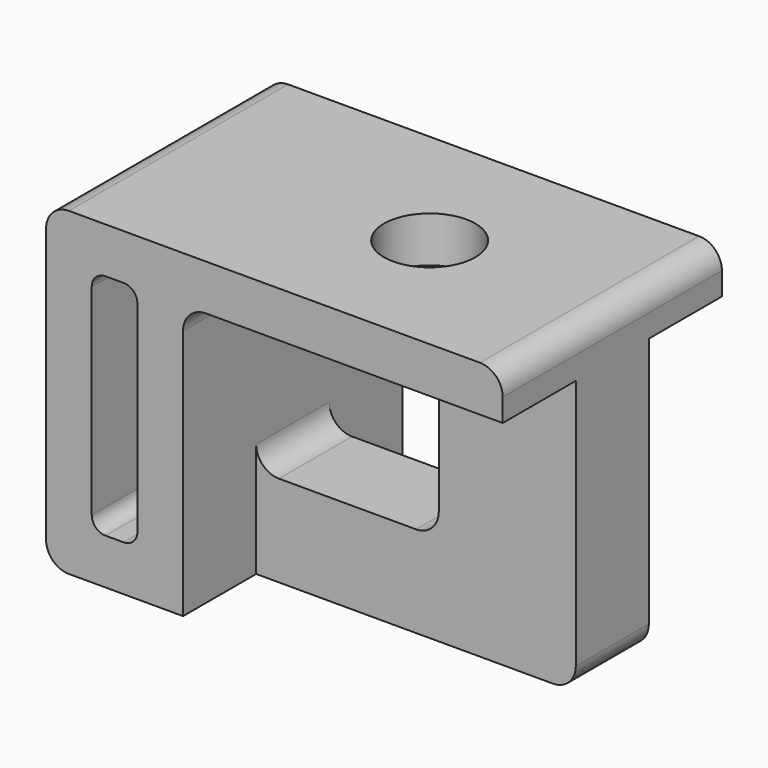
from build123d import *

# Parameters (mm, degrees)
F1_DEPTH = 38.1
F2_DEPTH = 12.7
F3_R     = 12.7
F4_DEPTH = 25.4


with BuildPart() as f1:
    # F0 (on Front) → F1 (new body, symmetric)
    with BuildSketch(Plane.XZ):
        with BuildLine():
            ThreePointArc((0, -6.35), (1.8598719395, -1.8598719395), (6.35, 0))
            Line((6.35, 0), (44.45, 0))
            Line((44.45, 0), (88.9, 0))
            Line((88.9, 0), (88.9, 6.35))
            ThreePointArc((88.9, 6.35), (87.0401280605, 10.8401280605), (82.55, 12.7))
            Line((82.55, 12.7), (-31.75, 12.7))
            ThreePointArc((-31.75, 12.7), (-36.2401280605, 10.8401280605), (-38.1, 6.35))
            Line((-38.1, 6.35), (-38.1, -69.85))
            ThreePointArc((-38.1, -69.85), (-36.2401280605, -74.3401280605), (-31.75, -76.2))
            Line((-31.75, -76.2), (0, -76.2))
            Line((0, -76.2), (0, -44.45))
            Line((0, -44.45), (0, -6.35))
        make_face()
        with BuildLine():
            ThreePointArc((-25.4, -3.81), (-24.2840768363, -1.1159231637), (-21.59, 0))
            Line((-21.59, 0), (-16.51, 0))
            ThreePointArc((-16.51, 0), (-13.8159231637, -1.1159231637), (-12.7, -3.81))
            Line((-12.7, -3.81), (-12.7, -59.69))
            ThreePointArc((-12.7, -59.69), (-13.8159231637, -62.3840768363), (-16.51, -63.5))
            Line((-16.51, -63.5), (-21.59, -63.5))
            ThreePointArc((-21.59, -63.5), (-24.2840768363, -62.3840768363), (-25.4, -59.69))
            Line((-25.4, -59.69), (-25.4, -3.81))
        make_face(mode=Mode.SUBTRACT)
    extrude(amount=F1_DEPTH, both=True)

    # F0 (on Front) → F2 (join, symmetric)
    with BuildSketch(Plane.XZ):
        with BuildLine():
            ThreePointArc((0, -6.35), (1.8598719395, -1.8598719395), (6.35, 0))
            Line((6.35, 0), (44.45, 0))
            Line((44.45, 0), (88.9, 0))
            Line((88.9, 0), (88.9, 6.35))
            ThreePointArc((88.9, 6.35), (87.0401280605, 10.8401280605), (82.55, 12.7))
            Line((82.55, 12.7), (-31.75, 12.7))
            ThreePointArc((-31.75, 12.7), (-36.2401280605, 10.8401280605), (-38.1, 6.35))
            Line((-38.1, 6.35), (-38.1, -69.85))
            ThreePointArc((-38.1, -69.85), (-36.2401280605, -74.3401280605), (-31.75, -76.2))
            Line((-31.75, -76.2), (0, -76.2))
            Line((0, -76.2), (0, -44.45))
            Line((0, -44.45), (0, -6.35))
        make_face()
        with BuildLine():
            ThreePointArc((-25.4, -3.81), (-24.2840768363, -1.1159231637), (-21.59, 0))
            Line((-21.59, 0), (-16.51, 0))
            ThreePointArc((-16.51, 0), (-13.8159231637, -1.1159231637), (-12.7, -3.81))
            Line((-12.7, -3.81), (-12.7, -59.69))
            ThreePointArc((-12.7, -59.69), (-13.8159231637, -62.3840768363), (-16.51, -63.5))
            Line((-16.51, -63.5), (-21.59, -63.5))
            ThreePointArc((-21.59, -63.5), (-24.2840768363, -62.3840768363), (-25.4, -59.69))
            Line((-25.4, -59.69), (-25.4, -3.81))
        make_face(mode=Mode.SUBTRACT)
        with BuildLine():
            Line((88.9, 0), (44.45, 0))
            ThreePointArc((44.45, 0), (48.9401280605, -1.8598719395), (50.8, -6.35))
            Line((50.8, -6.35), (50.8, -44.45))
            ThreePointArc((50.8, -44.45), (48.9401280605, -48.9401280605), (44.45, -50.8))
            Line((44.45, -50.8), (6.35, -50.8))
            ThreePointArc((6.35, -50.8), (1.8598719395, -48.9401280605), (0, -44.45))
            Line((0, -44.45), (0, -76.2))
            Line((0, -76.2), (82.55, -76.2))
            ThreePointArc((82.55, -76.2), (87.0401280605, -74.3401280605), (88.9, -69.85))
            Line((88.9, -69.85), (88.9, 0))
        make_face()
    extrude(amount=F2_DEPTH, both=True)

    # F3 (on face) → F4 (cut)
    with BuildSketch(Plane.XY.offset(12.7)):
        with Locations((38.1, 0)):
            Circle(F3_R)
    extrude(amount=-F4_DEPTH, mode=Mode.SUBTRACT)


solid = f1.part
